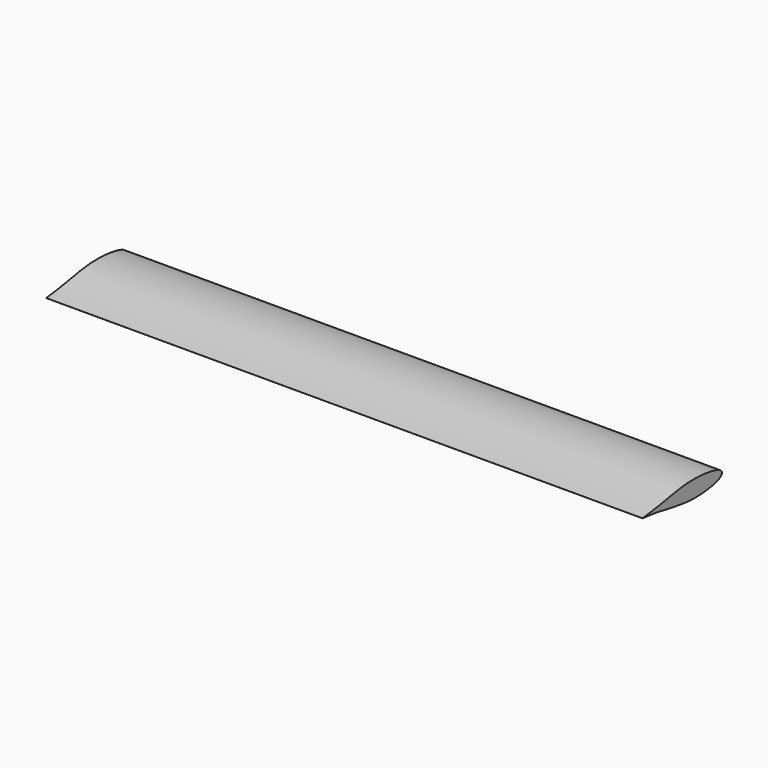
from build123d import *

# Parameters (mm, degrees)
F1_DEPTH = 6096


with BuildPart() as f1:
    # F0 (on Right) → F1 (new body)
    with BuildSketch(Plane.YZ):
        with BuildLine():
            Line((1016, 0), (0, 0))
            add(Edge.make_bspline(
                [(0, 0), (252.3296671921, -20.8942399087), (556.463403827, -123.5008420083), (985.4527023488, -66.477390861), (1016.7686334073, -12.9195614933), (1016, 0)],
                knots=[0, 0, 0, 0, 0.2436097432, 0.4324217202, 0.5010888248, 0.5010888248, 0.5010888248, 0.5010888248], degree=3))
        make_face()
        with BuildLine():
            Line((0, 0.2447488009), (0, 0))
            Line((0, 0), (1016, 0))
            add(Edge.make_bspline(
                [(1016, 0), (1015.248462062, 12.6322125891), (979.1997836122, 55.7523171552), (557.5068229765, 122.7575591605), (251.1634511614, 23.1055931839), (0, 0.2447488009)],
                knots=[0.5010888248, 0.5010888248, 0.5010888248, 0.5010888248, 0.568228678, 0.7566475224, 1, 1, 1, 1], degree=3))
        make_face()
    extrude(amount=F1_DEPTH)


solid = f1.part
